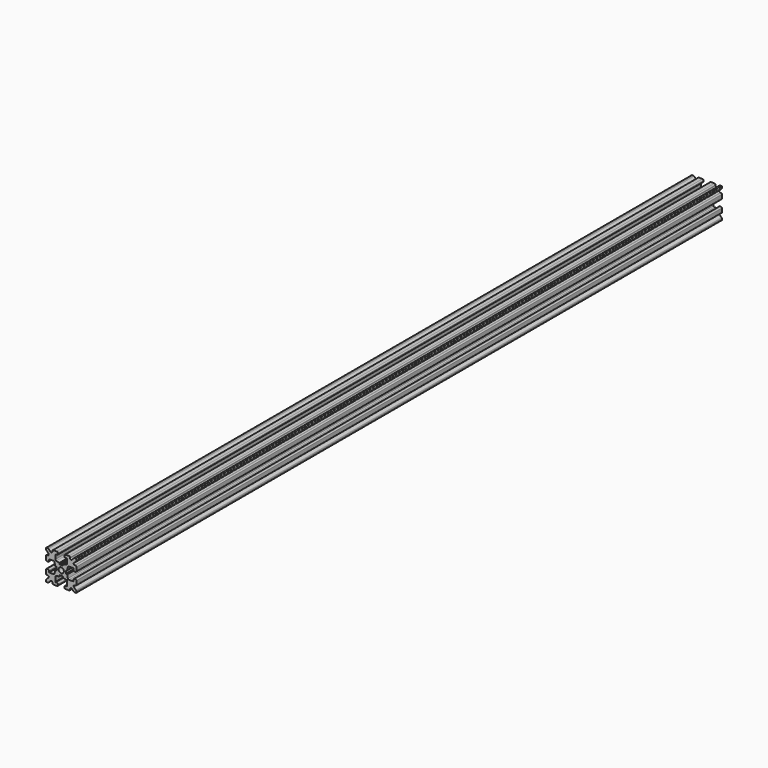
from build123d import *

# Parameters (mm, degrees)
F0_R     = 1.3
F1_DEPTH = 200


with BuildPart() as f1:
    # F0 (on Front) → F1 (new body, symmetric)
    with BuildSketch(Plane.XZ):
        with BuildLine():
            ThreePointArc((0.6255, -2.347065), (0.766921, -2.405643), (0.8255, -2.547065))
            Line((0.8255, -2.547065), (0.8255, -2.774891))
            ThreePointArc((0.8255, -2.774891), (0.869378, -2.899894), (0.981758, -2.970049))
            Line((0.981758, -2.970049), (2.509356, -3.312442))
            ThreePointArc((2.509356, -3.312442), (2.790306, -3.487829), (2.9, -3.800337))
            Line((2.9, -3.800337), (2.9, -5.9))
            ThreePointArc((2.9, -5.9), (2.841421, -6.041421), (2.7, -6.1))
            Line((2.7, -6.1), (2.1, -6.1))
            ThreePointArc((2.1, -6.1), (1.746447, -6.246447), (1.6, -6.6))
            Line((1.6, -6.6), (1.6, -7))
            ThreePointArc((1.6, -7), (1.746447, -7.353553), (2.1, -7.5))
            Line((2.1, -7.5), (3.9, -7.5))
            ThreePointArc((3.9, -7.5), (4.253553, -7.353553), (4.4, -7))
            Line((4.4, -7), (4.4, -6.667767))
            ThreePointArc((4.4, -6.667767), (4.708658, -6.205827), (5.253553, -6.314214))
            Line((5.253553, -6.314214), (6.292893, -7.353553))
            ThreePointArc((6.292893, -7.353553), (6.455105, -7.46194), (6.646447, -7.5))
            Line((6.646447, -7.5), (7.25, -7.5))
            ThreePointArc((7.25, -7.5), (7.426777, -7.426777), (7.5, -7.25))
            Line((7.5, -7.25), (7.5, -6.646447))
            ThreePointArc((7.5, -6.646447), (7.46194, -6.455105), (7.353553, -6.292893))
            Line((7.353553, -6.292893), (6.314214, -5.253553))
            ThreePointArc((6.314214, -5.253553), (6.205827, -4.708658), (6.667767, -4.4))
            Line((6.667767, -4.4), (7, -4.4))
            ThreePointArc((7, -4.4), (7.353553, -4.253553), (7.5, -3.9))
            Line((7.5, -3.9), (7.5, -2.1))
            ThreePointArc((7.5, -2.1), (7.353553, -1.746447), (7, -1.6))
            Line((7, -1.6), (6.6, -1.6))
            ThreePointArc((6.6, -1.6), (6.246447, -1.746447), (6.1, -2.1))
            Line((6.1, -2.1), (6.1, -2.7))
            ThreePointArc((6.1, -2.7), (6.041421, -2.841421), (5.9, -2.9))
            Line((5.9, -2.9), (3.800337, -2.9))
            ThreePointArc((3.800337, -2.9), (3.487829, -2.790306), (3.312442, -2.509356))
            Line((3.312442, -2.509356), (2.970049, -0.981758))
            ThreePointArc((2.970049, -0.981758), (2.899894, -0.869378), (2.774891, -0.8255))
            Line((2.774891, -0.8255), (2.547065, -0.8255))
            ThreePointArc((2.547065, -0.8255), (2.405643, -0.766921), (2.347065, -0.6255))
            Line((2.347065, -0.6255), (2.347065, 0.6255))
            ThreePointArc((2.347065, 0.6255), (2.405643, 0.766921), (2.547065, 0.8255))
            Line((2.547065, 0.8255), (2.774891, 0.8255))
            ThreePointArc((2.774891, 0.8255), (2.899894, 0.869378), (2.970049, 0.981758))
            Line((2.970049, 0.981758), (3.312442, 2.509356))
            ThreePointArc((3.312442, 2.509356), (3.487829, 2.790306), (3.800337, 2.9))
            Line((3.800337, 2.9), (5.9, 2.9))
            ThreePointArc((5.9, 2.9), (6.041421, 2.841421), (6.1, 2.7))
            Line((6.1, 2.7), (6.1, 2.1))
            ThreePointArc((6.1, 2.1), (6.246447, 1.746447), (6.6, 1.6))
            Line((6.6, 1.6), (7, 1.6))
            ThreePointArc((7, 1.6), (7.353553, 1.746447), (7.5, 2.1))
            Line((7.5, 2.1), (7.5, 3.9))
            ThreePointArc((7.5, 3.9), (7.353553, 4.253553), (7, 4.4))
            Line((7, 4.4), (6.667767, 4.4))
            ThreePointArc((6.667767, 4.4), (6.205827, 4.708658), (6.314214, 5.253553))
            Line((6.314214, 5.253553), (7.353553, 6.292893))
            ThreePointArc((7.353553, 6.292893), (7.46194, 6.455105), (7.5, 6.646447))
            Line((7.5, 6.646447), (7.5, 7.25))
            ThreePointArc((7.5, 7.25), (7.426777, 7.426777), (7.25, 7.5))
            Line((7.25, 7.5), (6.646447, 7.5))
            ThreePointArc((6.646447, 7.5), (6.455105, 7.46194), (6.292893, 7.353553))
            Line((6.292893, 7.353553), (5.253553, 6.314214))
            ThreePointArc((5.253553, 6.314214), (4.708658, 6.205827), (4.4, 6.667767))
            Line((4.4, 6.667767), (4.4, 7))
            ThreePointArc((4.4, 7), (4.253553, 7.353553), (3.9, 7.5))
            Line((3.9, 7.5), (2.1, 7.5))
            ThreePointArc((2.1, 7.5), (1.746447, 7.353553), (1.6, 7))
            Line((1.6, 7), (1.6, 6.6))
            ThreePointArc((1.6, 6.6), (1.746447, 6.246447), (2.1, 6.1))
            Line((2.1, 6.1), (2.7, 6.1))
            ThreePointArc((2.7, 6.1), (2.841421, 6.041421), (2.9, 5.9))
            Line((2.9, 5.9), (2.9, 3.800337))
            ThreePointArc((2.9, 3.800337), (2.790306, 3.487829), (2.509356, 3.312442))
            Line((2.509356, 3.312442), (0.981758, 2.970049))
            ThreePointArc((0.981758, 2.970049), (0.869378, 2.899894), (0.8255, 2.774891))
            Line((0.8255, 2.774891), (0.8255, 2.547065))
            ThreePointArc((0.8255, 2.547065), (0.766921, 2.405643), (0.6255, 2.347065))
            Line((0.6255, 2.347065), (-0.6255, 2.347065))
            ThreePointArc((-0.6255, 2.347065), (-0.766921, 2.405643), (-0.8255, 2.547065))
            Line((-0.8255, 2.547065), (-0.8255, 2.774891))
            ThreePointArc((-0.8255, 2.774891), (-0.869378, 2.899894), (-0.981758, 2.970049))
            Line((-0.981758, 2.970049), (-2.509356, 3.312442))
            ThreePointArc((-2.509356, 3.312442), (-2.790306, 3.487829), (-2.9, 3.800337))
            Line((-2.9, 3.800337), (-2.9, 5.9))
            ThreePointArc((-2.9, 5.9), (-2.841421, 6.041421), (-2.7, 6.1))
            Line((-2.7, 6.1), (-2.1, 6.1))
            ThreePointArc((-2.1, 6.1), (-1.746447, 6.246447), (-1.6, 6.6))
            Line((-1.6, 6.6), (-1.6, 7))
            ThreePointArc((-1.6, 7), (-1.746447, 7.353553), (-2.1, 7.5))
            Line((-2.1, 7.5), (-3.9, 7.5))
            ThreePointArc((-3.9, 7.5), (-4.253553, 7.353553), (-4.4, 7))
            Line((-4.4, 7), (-4.4, 6.667767))
            ThreePointArc((-4.4, 6.667767), (-4.708658, 6.205827), (-5.253553, 6.314214))
            Line((-5.253553, 6.314214), (-6.292893, 7.353553))
            ThreePointArc((-6.292893, 7.353553), (-6.455105, 7.46194), (-6.646447, 7.5))
            Line((-6.646447, 7.5), (-7.25, 7.5))
            ThreePointArc((-7.25, 7.5), (-7.426777, 7.426777), (-7.5, 7.25))
            Line((-7.5, 7.25), (-7.5, 6.646447))
            ThreePointArc((-7.5, 6.646447), (-7.46194, 6.455105), (-7.353553, 6.292893))
            Line((-7.353553, 6.292893), (-6.314214, 5.253553))
            ThreePointArc((-6.314214, 5.253553), (-6.205827, 4.708658), (-6.667767, 4.4))
            Line((-6.667767, 4.4), (-7, 4.4))
            ThreePointArc((-7, 4.4), (-7.353553, 4.253553), (-7.5, 3.9))
            Line((-7.5, 3.9), (-7.5, 2.1))
            ThreePointArc((-7.5, 2.1), (-7.353553, 1.746447), (-7, 1.6))
            Line((-7, 1.6), (-6.6, 1.6))
            ThreePointArc((-6.6, 1.6), (-6.246447, 1.746447), (-6.1, 2.1))
            Line((-6.1, 2.1), (-6.1, 2.7))
            ThreePointArc((-6.1, 2.7), (-6.041421, 2.841421), (-5.9, 2.9))
            Line((-5.9, 2.9), (-3.800337, 2.9))
            ThreePointArc((-3.800337, 2.9), (-3.487829, 2.790306), (-3.312442, 2.509356))
            Line((-3.312442, 2.509356), (-2.970049, 0.981758))
            ThreePointArc((-2.970049, 0.981758), (-2.899894, 0.869378), (-2.774891, 0.8255))
            Line((-2.774891, 0.8255), (-2.547065, 0.8255))
            ThreePointArc((-2.547065, 0.8255), (-2.405643, 0.766921), (-2.347065, 0.6255))
            Line((-2.347065, 0.6255), (-2.347065, -0.6255))
            ThreePointArc((-2.347065, -0.6255), (-2.405643, -0.766921), (-2.547065, -0.8255))
            Line((-2.547065, -0.8255), (-2.774891, -0.8255))
            ThreePointArc((-2.774891, -0.8255), (-2.899894, -0.869378), (-2.970049, -0.981758))
            Line((-2.970049, -0.981758), (-3.312442, -2.509356))
            ThreePointArc((-3.312442, -2.509356), (-3.487829, -2.790306), (-3.800337, -2.9))
            Line((-3.800337, -2.9), (-5.9, -2.9))
            ThreePointArc((-5.9, -2.9), (-6.041421, -2.841421), (-6.1, -2.7))
            Line((-6.1, -2.7), (-6.1, -2.1))
            ThreePointArc((-6.1, -2.1), (-6.246447, -1.746447), (-6.6, -1.6))
            Line((-6.6, -1.6), (-7, -1.6))
            ThreePointArc((-7, -1.6), (-7.353553, -1.746447), (-7.5, -2.1))
            Line((-7.5, -2.1), (-7.5, -3.9))
            ThreePointArc((-7.5, -3.9), (-7.353553, -4.253553), (-7, -4.4))
            Line((-7, -4.4), (-6.667767, -4.4))
            ThreePointArc((-6.667767, -4.4), (-6.205827, -4.708658), (-6.314214, -5.253553))
            Line((-6.314214, -5.253553), (-7.353553, -6.292893))
            ThreePointArc((-7.353553, -6.292893), (-7.46194, -6.455105), (-7.5, -6.646447))
            Line((-7.5, -6.646447), (-7.5, -7.25))
            ThreePointArc((-7.5, -7.25), (-7.426777, -7.426777), (-7.25, -7.5))
            Line((-7.25, -7.5), (-6.646447, -7.5))
            ThreePointArc((-6.646447, -7.5), (-6.455105, -7.46194), (-6.292893, -7.353553))
            Line((-6.292893, -7.353553), (-5.253553, -6.314214))
            ThreePointArc((-5.253553, -6.314214), (-4.708658, -6.205827), (-4.4, -6.667767))
            Line((-4.4, -6.667767), (-4.4, -7))
            ThreePointArc((-4.4, -7), (-4.253553, -7.353553), (-3.9, -7.5))
            Line((-3.9, -7.5), (-2.1, -7.5))
            ThreePointArc((-2.1, -7.5), (-1.746447, -7.353553), (-1.6, -7))
            Line((-1.6, -7), (-1.6, -6.6))
            ThreePointArc((-1.6, -6.6), (-1.746447, -6.246447), (-2.1, -6.1))
            Line((-2.1, -6.1), (-2.7, -6.1))
            ThreePointArc((-2.7, -6.1), (-2.841421, -6.041421), (-2.9, -5.9))
            Line((-2.9, -5.9), (-2.9, -3.800337))
            ThreePointArc((-2.9, -3.800337), (-2.790306, -3.487829), (-2.509356, -3.312442))
            Line((-2.509356, -3.312442), (-0.981758, -2.970049))
            ThreePointArc((-0.981758, -2.970049), (-0.869378, -2.899894), (-0.8255, -2.774891))
            Line((-0.8255, -2.774891), (-0.8255, -2.547065))
            ThreePointArc((-0.8255, -2.547065), (-0.766921, -2.405643), (-0.6255, -2.347065))
            Line((-0.6255, -2.347065), (0.6255, -2.347065))
        make_face()
        Circle(F0_R, mode=Mode.SUBTRACT)
    extrude(amount=F1_DEPTH, both=True)


solid = f1.part
